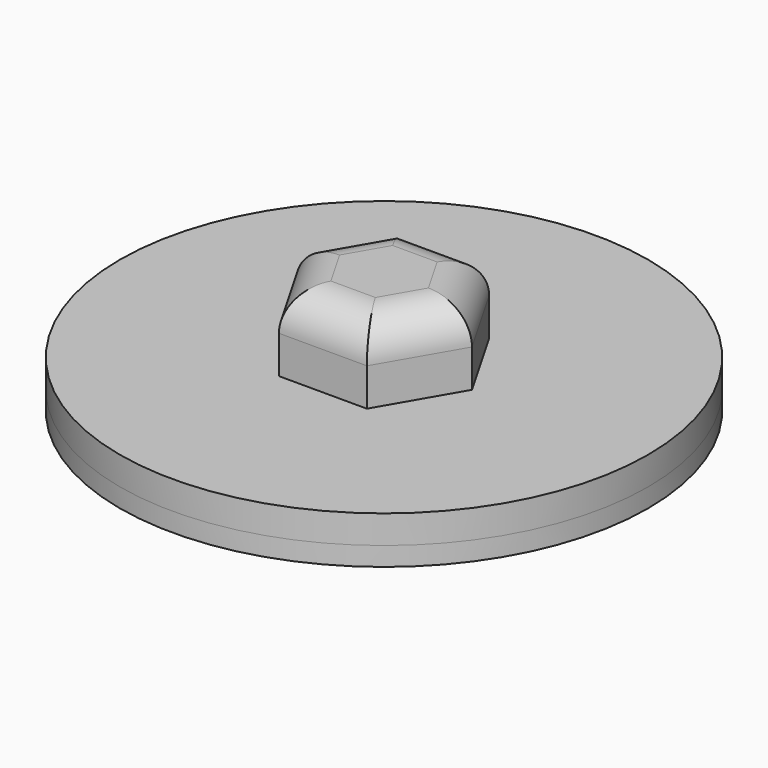
from build123d import *

# Parameters (mm, degrees)
F0_R      = 177.8
F1_DEPTH  = 12.7
F3_R      = 6.35
F4_DEPTH  = 12.7
F5_R      = 177.8
F6_DEPTH  = 19.05
F7_R      = 63.5
F8_DEPTH  = 3.175
F2_R      = 4.7625
F9_DEPTH  = 15.876
F10_R     = 12.7
F10_R_2   = 9.525
F11_DEPTH = 25.4
F13_R     = 1.5875
F14_DEPTH = 1.7217234466
F16_DEPTH = 50.8
F17_R     = 25.4


with BuildPart() as f1:
    # F0 (on Top) → F1 (new body)
    with BuildSketch(Plane.XY):
        Circle(F0_R)
    extrude(amount=F1_DEPTH)

    # F3 (on face) → F4 (join)
    with BuildSketch(Plane.XY.offset(12.7)):
        with Locations((0, 165.1)):
            Circle(F3_R)
        with Locations((0, -165.1)):
            Circle(F3_R)
    extrude(amount=F4_DEPTH)


with BuildPart() as f6:
    # F5 (on face) → F6 (new body)
    with BuildSketch(Plane.XY.offset(12.7)):
        Circle(F5_R)
    extrude(amount=F6_DEPTH)


with BuildPart() as f8:
    # F7 (on face) → F8 (new body)
    with BuildSketch(Plane(origin=(0, 0, 0), x_dir=(1, 0, 0), z_dir=(0, 0, -1))):
        Circle(F7_R)
    extrude(amount=F8_DEPTH)


with BuildPart() as f9_tool:
    # F2 (on face) → F9 (new body, through all)
    with BuildSketch(Plane.XY.offset(12.7)):
        with Locations((0, 31.75)):
            Circle(F2_R)
        with Locations((-30.1960443924, 9.8112895714)):
            Circle(F2_R)
        with Locations((-18.6621817603, -25.6862895714)):
            Circle(F2_R)
        with Locations((18.6621817603, -25.6862895714)):
            Circle(F2_R)
        with Locations((30.1960443924, 9.8112895714)):
            Circle(F2_R)
    extrude(amount=-F9_DEPTH)


with BuildPart() as f1_1:
    add(f1.part)

    # F9: cut by f9_tool
    add(f9_tool.part, mode=Mode.SUBTRACT)


with BuildPart() as f8_1:
    add(f8.part)

    # F9: cut by f9_tool
    add(f9_tool.part, mode=Mode.SUBTRACT)

    # F10 (on face) → F11 (join)
    with BuildSketch(Plane(origin=(0, 0, -3.175), x_dir=(1, 0, 0), z_dir=(0, 0, -1))):
        Circle(F10_R)
        Circle(F10_R_2, mode=Mode.SUBTRACT)
    extrude(amount=F11_DEPTH)

    # F13 (on offset) → F14 (cut, through all)
    with BuildSketch(Plane.XZ.offset(11.1125)):
        with Locations((0, -16.5969933962)):
            Circle(F13_R)
    extrude(amount=-F14_DEPTH, mode=Mode.SUBTRACT)


with BuildPart() as f16:
    # F15 (on face) → F16 (new body)
    with BuildSketch(Plane.XY.offset(31.75)):
        Polygon((29.5799792173, -51.383216395), (59.2891603349, -0.074594752), (29.7091811176, 51.3086216431), (-29.5799792173, 51.383216395), (-59.2891603349, 0.074594752), (-29.7091811176, -51.3086216431), align=None)
    extrude(amount=F16_DEPTH)

    # F17
    f17_edges = [f16.edges().sort_by_distance(p)[0] for p in [
        (-44.499171, -25.617013, 82.55),
        (0.064601, 51.345919, 82.55),
        (-44.43457, 25.728906, 82.55),
        (44.499171, 25.617013, 82.55),
        (44.43457, -25.728906, 82.55),
        (-0.064601, -51.345919, 82.55),
    ]]
    fillet(f17_edges, radius=F17_R)


solid = Compound([f6.part, f1_1.part, f8_1.part, f16.part])
